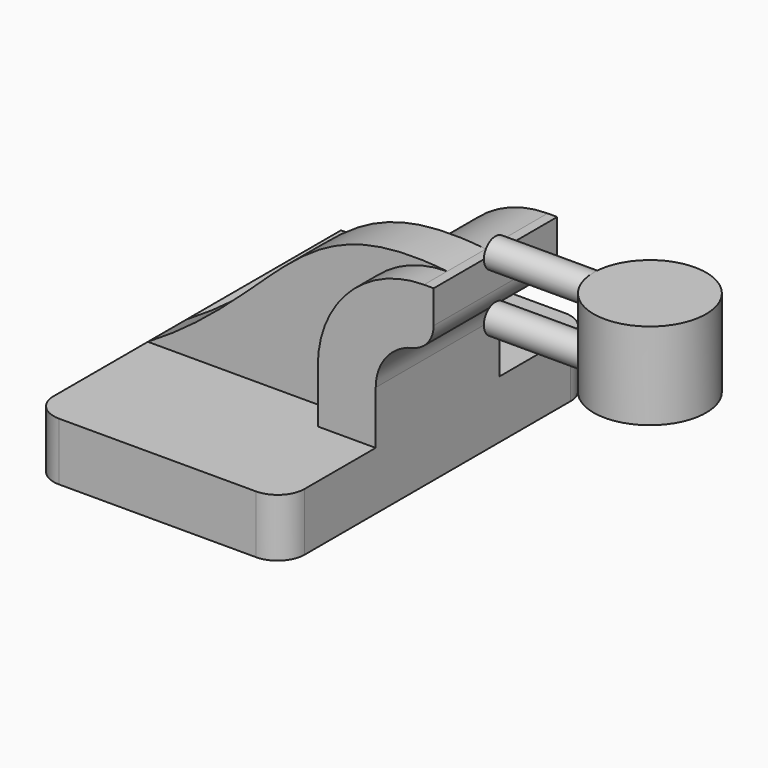
from build123d import *

# Parameters (mm, degrees)
F1_DEPTH = 63.5
F2_DEPTH = 25.4
F3_DEPTH = 15.875
F5_R     = 8.89
F0_W     = 32.307704
F0_H     = 4.7752
F0_H_2   = 4.7498


with BuildPart() as f1:
    # F0 (on Front) → F1 (new body, symmetric)
    with BuildSketch(Plane.XZ):
        Polygon((41.275, -9.525), (41.275, 9.525), (22.225, 9.525), (-41.275, 9.525), (-41.275, -9.525), align=None)
    extrude(amount=F1_DEPTH, both=True)

    # F0 (on Front) → F2 (join, symmetric)
    with BuildSketch(Plane.XZ):
        with BuildLine():
            Line((22.225, 9.525), (41.275, 9.525))
            Line((41.275, 9.525), (41.275, 27.0002))
            ThreePointArc((41.275, 27.0002), (45.92468, 38.22552), (57.15, 42.8752))
            Line((57.15, 42.8752), (60.325, 42.8752))
            Line((60.325, 42.8752), (60.325, 61.9252))
            Line((60.325, 61.9252), (57.15, 61.9252))
            ThreePointArc((57.15, 61.9252), (32.454296, 51.695904), (22.225, 27.0002))
            Line((22.225, 27.0002), (22.225, 9.525))
        make_face()
    extrude(amount=F2_DEPTH, both=True)

    # F0 (on Front) → F3 (join)
    with BuildSketch(Plane.XZ):
        with BuildLine():
            Line((-41.275, 9.525), (22.225, 9.525))
            Line((22.225, 9.525), (22.225, 27.0002))
            ThreePointArc((22.225, 27.0002), (32.454296, 51.695904), (57.15, 61.9252))
            add(Edge.make_bspline(
                [(-41.275, 9.525), (4.012068, 36.818478), (6.998443, 67.511775), (57.15, 61.9252)],
                knots=[0, 0, 0, 0, 111.504536, 111.504536, 111.504536, 111.504536], degree=3))
        make_face()
    extrude(amount=F3_DEPTH)

    # F5
    f5_edges = [f1.edges().sort_by_distance(p)[0] for p in [
        (41.275, -63.5, 0),
        (-41.275, -63.5, 0),
        (41.275, 63.5, 0),
        (60.325, 0, 42.8752),
    ]]
    fillet(f5_edges, radius=F5_R)


with BuildPart() as f4:
    # F0 (on Front) → F4 (revolve)
    with BuildSketch(Plane.XZ):
        Polygon((92.632704, 61.9252), (92.632704, 42.8752), (92.632704, 38.1), (111.125, 38.1), (111.125, 66.675), (92.632704, 66.675), align=None)
    revolve(axis=Axis((111.125, 0, 52.3875), (0, 0, 1)))

    # F0 (on Front) → F6 (revolve)
    with BuildSketch(Plane.XZ):
        with Locations((76.478852, 40.4876)):
            Rectangle(F0_W, F0_H)
    revolve(axis=Axis((74.891352, 0, 42.8752), (1, 0, 0)))


with BuildPart() as f7:
    # F0 (on Front) → F7 (revolve)
    with BuildSketch(Plane.XZ):
        with Locations((76.478852, 64.3001)):
            Rectangle(F0_W, F0_H_2)
    revolve(axis=Axis((74.891352, 0, 61.9252), (1, 0, 0)))


solid = Compound([f1.part, f4.part, f7.part])
